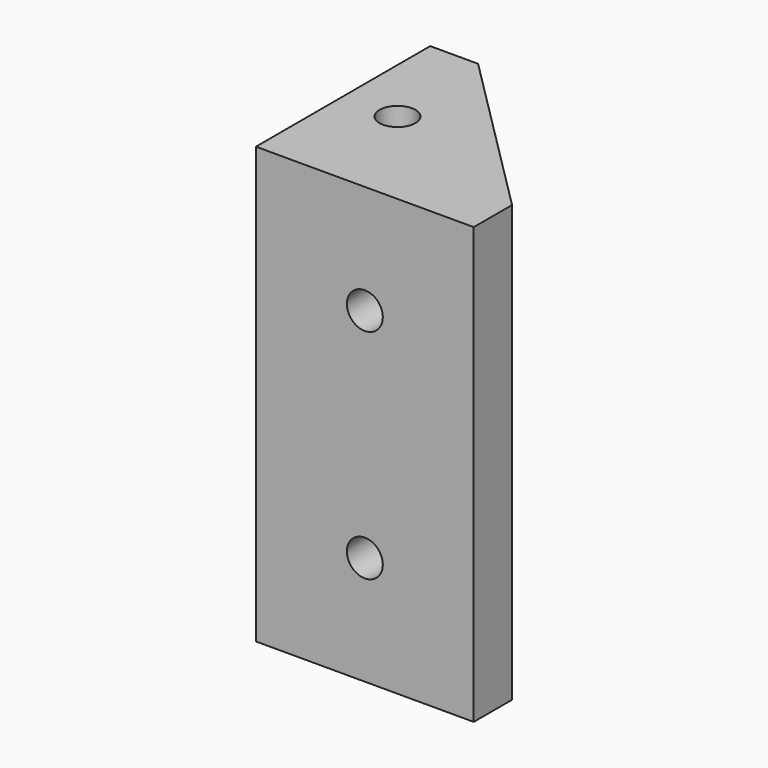
from build123d import *

# Parameters (mm, degrees)
PAD_DEPTH      = 40
SKETCH001_R    = 1.65
HOLE_DEPTH     = 10
HOLE_TIPS_R    = 1.65
SKETCH002_R    = 1.65
HOLE001_DEPTH  = 12
HOLE001_TIPS_R = 1.65


with BuildPart() as part:
    # Sketch → Pad (new body)
    with BuildSketch(Plane.XY):
        Polygon((65, 0), (85, 0), (85, 4.4), (69.4, 20), (65, 20), align=None)
    extrude(amount=PAD_DEPTH)

    # Sketch001 (on Face1 of Pad) → Hole (cut)
    with BuildSketch(Plane.XZ):
        with Locations((75, 30)):
            Circle(SKETCH001_R)
        with Locations((75, 10)):
            Circle(SKETCH001_R)
    extrude(amount=-HOLE_DEPTH, mode=Mode.SUBTRACT)

    # Hole tips → Hole tip 1 section 0
    with BuildSketch(Plane.XZ.offset(-10), mode=Mode.PRIVATE) as hole_tip_1_s0:
        with Locations((75, 30)):
            Circle(HOLE_TIPS_R)
    loft([hole_tip_1_s0.sketch, Vertex(75, 10.99142, 30)], mode=Mode.SUBTRACT)

    # Hole tips → Hole tip 2 section 0
    with BuildSketch(Plane.XZ.offset(-10), mode=Mode.PRIVATE) as hole_tip_2_s0:
        with Locations((75, 10)):
            Circle(HOLE_TIPS_R)
    loft([hole_tip_2_s0.sketch, Vertex(75, 10.99142, 10)], mode=Mode.SUBTRACT)

    # Sketch002 (on Face4 of Hole) → Hole001 (cut)
    with BuildSketch(Plane.XY.offset(40)):
        with Locations((70, 10)):
            Circle(SKETCH002_R)
    extrude(amount=-HOLE001_DEPTH, mode=Mode.SUBTRACT)

    # Hole001 tips → Hole001 tip 1 section 0
    with BuildSketch(Plane.XY.offset(28), mode=Mode.PRIVATE) as hole001_tip_1_s0:
        with Locations((70, 10)):
            Circle(HOLE001_TIPS_R)
    loft([hole001_tip_1_s0.sketch, Vertex(70, 10, 27.00858)], mode=Mode.SUBTRACT)


solid = part.part
